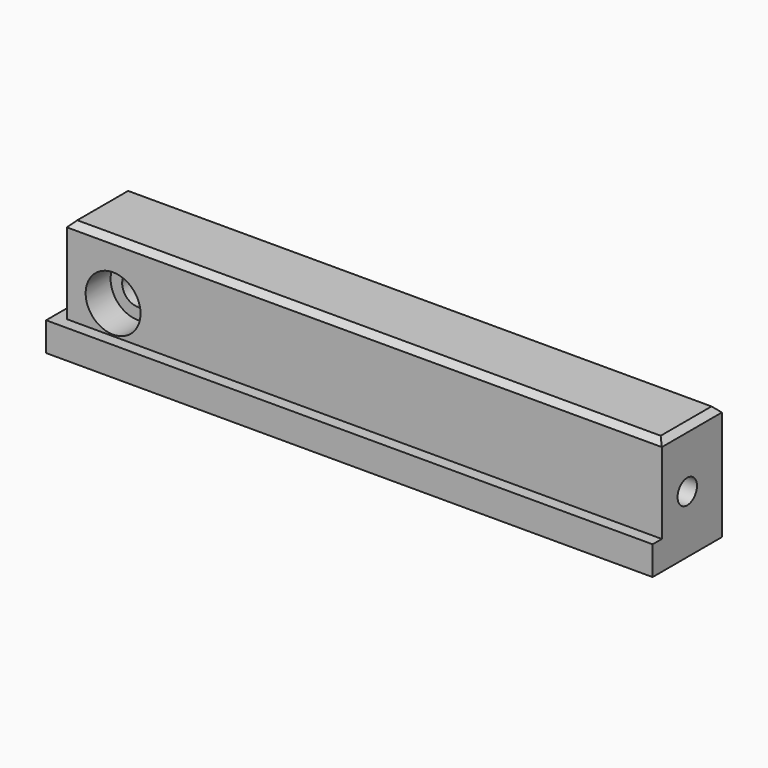
from build123d import *

# Parameters (mm, degrees)
F0_W           = 105
F0_H           = 15
F1_DEPTH       = 5
F2_W           = 103
F2_H           = 13
F3_DEPTH       = 15
F5_D           = 4.2
F5_DEPTH       = 8
F5_TIP         = 1.2618073
F7_D           = 5.5
F7_CBORE_D     = 9.5
F7_CBORE_DEPTH = 5.4
F8_SIZE        = 1


with BuildPart() as f1:
    # F0 (on Top) → F1 (new body)
    with BuildSketch(Plane.XY):
        with Locations((52.5, 7.5)):
            Rectangle(F0_W, F0_H)
    extrude(amount=F1_DEPTH)

    # F2 (on face) → F3 (join)
    with BuildSketch(Plane.XY.offset(5)):
        with Locations((53.5, 8.5)):
            Rectangle(F2_W, F2_H)
    extrude(amount=F3_DEPTH)

    # F5
    with Locations(Plane.YZ.offset(105)):
        with Locations((7.5, 10)):
            Hole(F5_D / 2, depth=F5_DEPTH)
            with Locations((0, 0, -(F5_DEPTH + F5_TIP / 2))):  # 118° drill point
                Cone(0, F5_D / 2, F5_TIP, mode=Mode.SUBTRACT)

    # F7 (through all)
    with Locations(Plane.XZ.offset(-2)):
        with Locations((10, 10)):
            CounterBoreHole(F7_D / 2, F7_CBORE_D / 2, F7_CBORE_DEPTH)

    # F8
    f8_edges = [f1.edges().sort_by_distance(p)[0] for p in [
        (53.5, 2, 20),
        (53.5, 15, 20),
        (105, 8.5, 20),
        (2, 8.5, 20),
    ]]
    chamfer(f8_edges, length=F8_SIZE)


solid = f1.part
